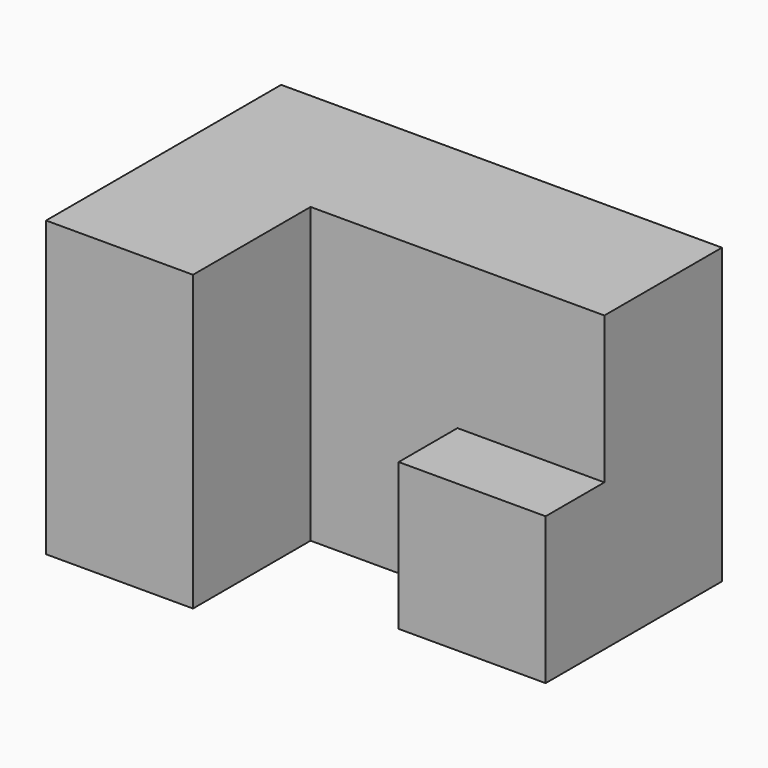
from build123d import *

# Parameters (mm, degrees)
F0_W     = 38.1
F0_H     = 25.4
F1_DEPTH = 25.4
F2_W     = 10.7522453129
F2_H     = 12.7
F2_W_2   = 14.6477546871
F3_DEPTH = 25.401
F4_W     = 12.7
F4_H     = 12.7
F5_DEPTH = 19.05


with BuildPart() as f1:
    # F0 (on Top) → F1 (new body)
    with BuildSketch(Plane.XY):
        with Locations((19.05, -12.7)):
            Rectangle(F0_W, F0_H)
    extrude(amount=F1_DEPTH)

    # F2 (on Top) → F3 (cut, through all)
    with BuildSketch(Plane.XY):
        with Locations((32.7238773435, -19.05)):
            Rectangle(F2_W, F2_H)
        with Locations((20.0238773435, -19.05)):
            Rectangle(F2_W_2, F2_H)
    extrude(amount=F3_DEPTH, mode=Mode.SUBTRACT)

    # F4 (on Front) → F5 (join)
    with BuildSketch(Plane.XZ):
        with Locations((31.75, 6.35)):
            Rectangle(F4_W, F4_H)
    extrude(amount=F5_DEPTH)


solid = f1.part
